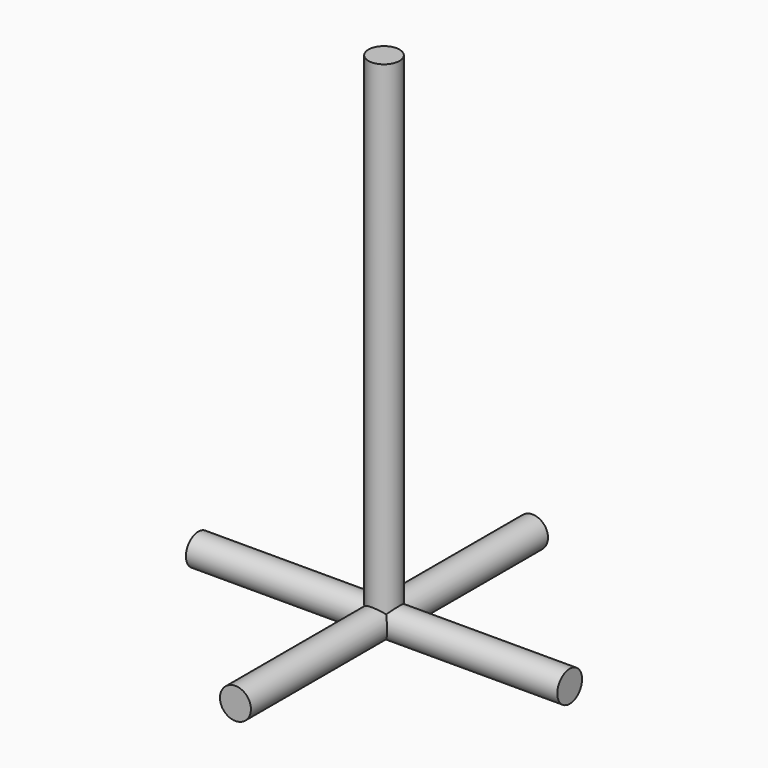
from build123d import *

# Parameters (mm, degrees)
F0_R     = 38.1
F1_DEPTH = 457.2
F2_R     = 38.1
F3_DEPTH = 457.2
F4_R     = 38.1
F5_DEPTH = 1219.2


with BuildPart() as f1:
    # F0 (on Front) → F1 (new body, symmetric)
    with BuildSketch(Plane.XZ):
        Circle(F0_R)
    extrude(amount=F1_DEPTH, both=True)

    # F2 (on Right) → F3 (join, symmetric)
    with BuildSketch(Plane.YZ):
        Circle(F2_R)
    extrude(amount=F3_DEPTH, both=True)

    # F4 (on Top) → F5 (join)
    with BuildSketch(Plane.XY):
        Circle(F4_R)
    extrude(amount=F5_DEPTH)


solid = f1.part
